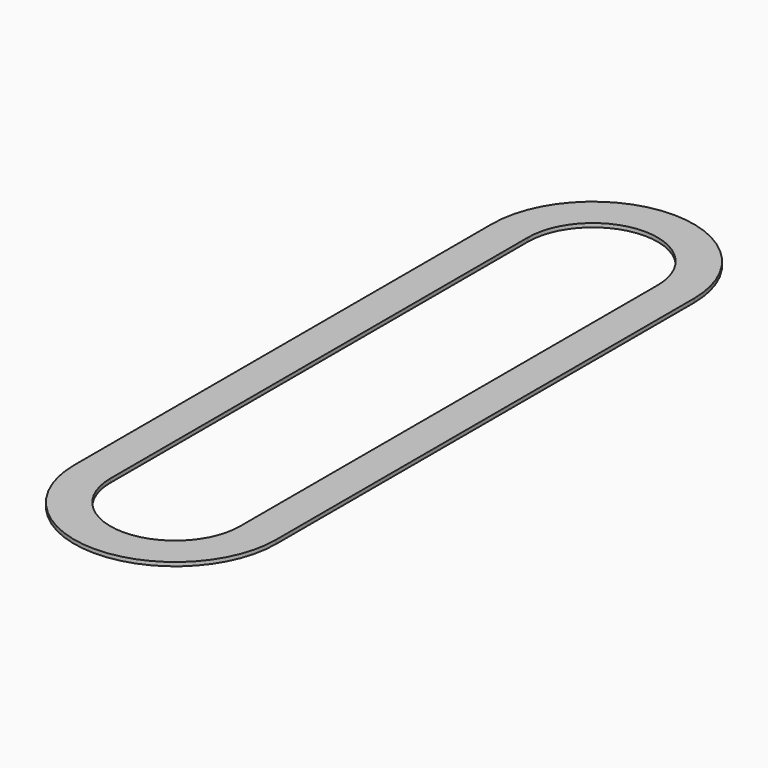
from build123d import *

# Parameters (mm, degrees)
F1_DEPTH = 2


with BuildPart() as f1:
    # F0 (on Top) → F1 (new body)
    with BuildSketch(Plane.XY):
        with BuildLine():
            ThreePointArc((53, 137), (0, 190), (-53, 137))
            Line((-53, 137), (-53, -137))
            ThreePointArc((-53, -137), (0, -190), (53, -137))
            Line((53, -137), (53, 137))
        make_face()
        with BuildLine():
            Line((-34, -137), (-34, 137))
            ThreePointArc((-34, 137), (0, 171), (34, 137))
            Line((34, 137), (34, -137))
            ThreePointArc((34, -137), (0, -171), (-34, -137))
        make_face(mode=Mode.SUBTRACT)
    extrude(amount=F1_DEPTH)


solid = f1.part
